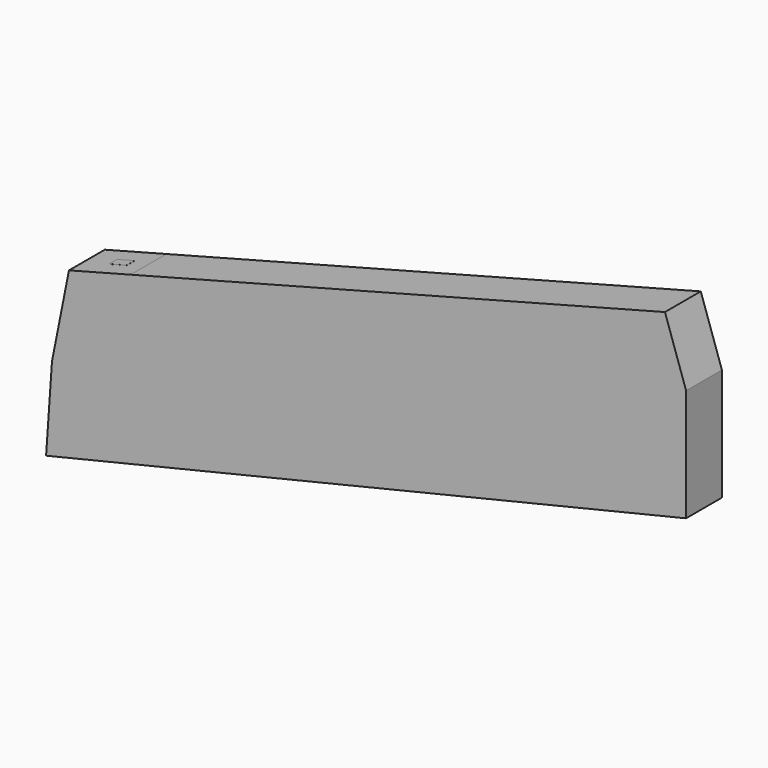
from build123d import *

# Parameters (mm, degrees)
F1_DEPTH = 25.4
F2_W     = 10.3561803699
F2_H     = 5.641033873
F3_DEPTH = 0.0254


with BuildPart() as f1:
    # F0 (on Front) → F1 (new body)
    with BuildSketch(Plane.XZ):
        Polygon((-180.321587468, 14.7963562756), (-183.6662888527, -33.3735458553), (179.340466857, 53.3933117986), (179.340466857, 117.1431019902), (131.396189332, 143.0117189884), (-135.7338540163, 72.5921073616), (-170.688867569, 63.3774250746), align=None)
        Polygon((131.396189332, 143.0117189884), (179.340466857, 117.1431019902), (167.3504786853, 152.4898258342), align=None)
    extrude(amount=F1_DEPTH)

    # F2 (on face) → F3 (join)
    with BuildSketch(Plane(origin=(-26.7126271231, 0, 101.331789206), x_dir=(0.9669655535, 0, 0.2549070778), z_dir=(-0.2549070778, 0, 0.9669655535))):
        with Locations((-128.4218169749, -12.583672069)):
            Rectangle(F2_W, F2_H)
    extrude(amount=F3_DEPTH)


solid = f1.part
